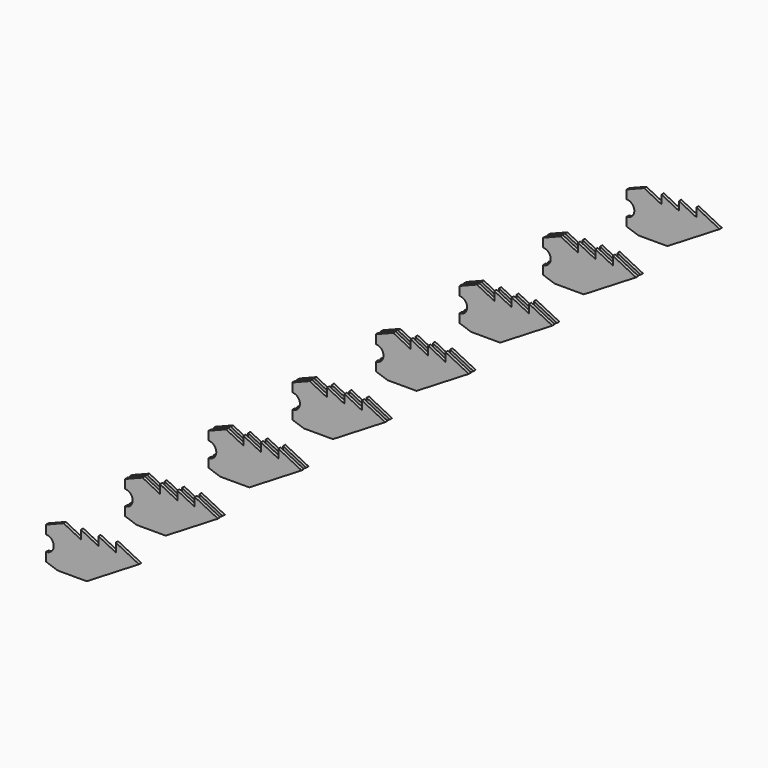
from build123d import *

# Parameters (mm, degrees)
PAD_DEPTH     = 6.35
ARRAY_X_COUNT = 2
ARRAY_X_PITCH = 215.9
ARRAY_Y_COUNT = 7
ARRAY_Y_PITCH = 228.6


with BuildPart() as part:
    # Sketch → Pad (new body)
    with BuildSketch(Plane.XZ):
        with BuildLine():
            Line((88.9, 0), (203.2, 69.85))
            Line((203.2, 69.85), (152.4, 95.25))
            Line((152.4, 95.25), (152.4, 76.2))
            Line((152.4, 76.2), (114.3, 95.25))
            Line((114.3, 95.25), (114.3, 76.2))
            Line((114.3, 76.2), (76.2, 95.25))
            Line((76.2, 95.25), (76.2, 76.2))
            Line((76.2, 76.2), (38.1, 95.25))
            Line((0, 80.2005), (38.1, 95.25))
            Line((0, 80.2005), (0, 61.1505))
            ThreePointArc((0, 27.7495), (16.7005, 44.45), (0, 61.1505))
            Line((0, 27.7495), (0, 8.6995))
            Line((0, 8.6995), (25.4, 0))
            Line((25.4, 0), (88.9, 0))
        make_face()
    extrude(amount=PAD_DEPTH)

    # Array X: part ×2


with BuildPart() as part_1:
    add(part.part)
    with Locations(*[(0, i * ARRAY_X_PITCH, 0) for i in range(1, ARRAY_X_COUNT)]):
        add(part.part)

    # Array Y: part ×7


with BuildPart() as part_2:
    add(part_1.part)
    with Locations(*[(0, i * ARRAY_Y_PITCH, 0) for i in range(1, ARRAY_Y_COUNT)]):
        add(part_1.part)


solid = part_2.part
